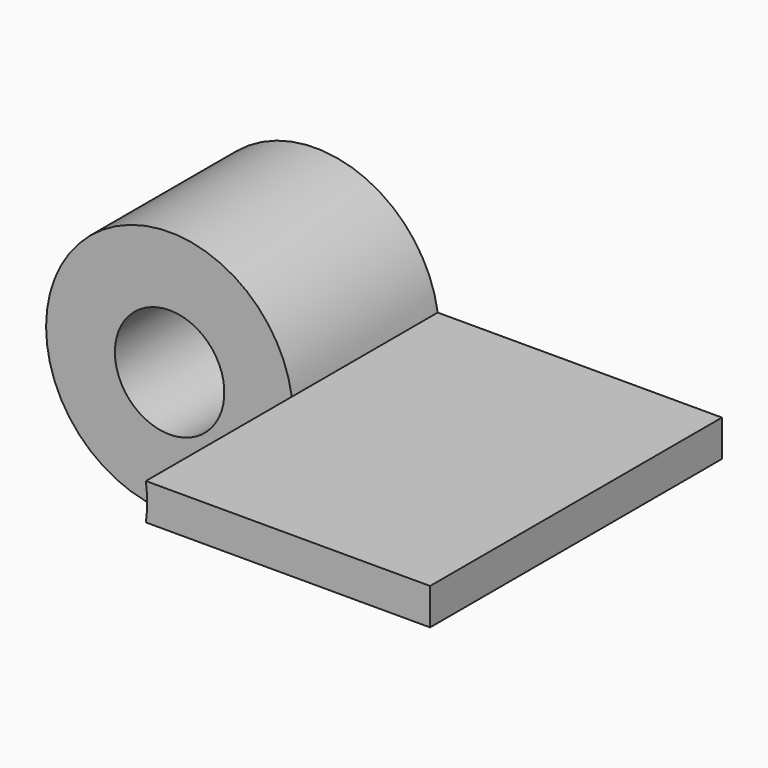
from build123d import *

# Parameters (mm, degrees)
F0_W     = 18.864762
F0_H     = 50
F3_DEPTH = 100


with BuildPart() as f1:
    # F0 (on Top) → F1 (revolve)
    with BuildSketch(Plane.XY):
        with Locations((-24.432381, 75)):
            Rectangle(F0_W, F0_H)
    revolve(axis=Axis((0, 34.19238, 0), (0, -1, 0)))

    # F2 (on Front) → F3 (join)
    with BuildSketch(Plane.XZ):
        with BuildLine():
            Line((111.403681, 5), (33.493613, 5))
            ThreePointArc((33.493613, 5), (33.864762, 0), (33.493613, -5))
            Line((33.493613, -5), (111.403681, -5))
            Line((111.403681, -5), (111.403681, 5))
        make_face()
    extrude(amount=-F3_DEPTH)


solid = f1.part
